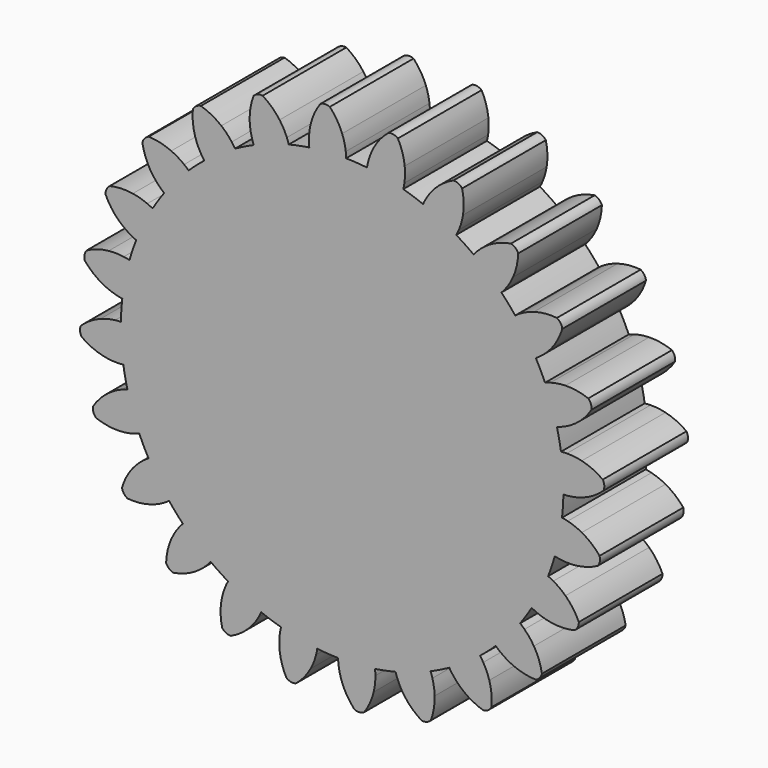
from build123d import *

# Parameters (mm, degrees)
F1_DEPTH = 25.4
F2_COUNT = 24


with BuildPart() as f1:
    # F0 (on Front) → F1 (new body)
    with BuildSketch(Plane.XZ):
        with BuildLine():
            ThreePointArc((-7.9757188017, 53.1256411782), (-35.0534039093, -40.7087793402), (53.721, 0))
            ThreePointArc((53.721, 0), (38.329016413, 37.6408334368), (0.9731977694, 53.7121841587))
            ThreePointArc((0.9731977694, 53.7121841587), (-3.5135215054, 53.6059792153), (-7.9757188017, 53.1256411782))
        make_face()
        with BuildLine():
            ThreePointArc((-7.9757188017, 53.1256411782), (-3.5135215054, 53.6059792153), (0.9731977694, 53.7121841587))
            ThreePointArc((0.9731977694, 53.7121841587), (0.9487260113, 54.422013975), (0.8762788669, 55.128560963))
            ThreePointArc((0.8762788669, 55.128560963), (0.5500181209, 56.9289320441), (0, 58.674))
            ThreePointArc((0, 58.674), (-1.2640596881, 61.196722678), (-2.9892332778, 63.4296025875))
            ThreePointArc((-2.9892332778, 63.4296025875), (-4.171199409, 63.6402049859), (-5.315564527, 63.2771267818))
            ThreePointArc((-5.315564527, 63.2771267818), (-6.7345297053, 60.8381691298), (-7.6584938023, 58.1720357962))
            ThreePointArc((-7.6584938023, 58.1720357962), (-7.9760293665, 56.3701053676), (-8.0645033248, 54.5425511378))
            ThreePointArc((-8.0645033248, 54.5425511378), (-8.0441077859, 53.8325925074), (-7.9757188017, 53.1256411782))
        make_face()
    extrude(amount=F1_DEPTH)

    # F2: F1 ×24 about axis
    f2_axis = Axis((0, 0, 0), (0, 1, 0))


with BuildPart() as f1_1:
    add(f1.part)
    for i in range(1, F2_COUNT):
        add(f1.part.rotate(f2_axis, i * 360 / F2_COUNT))


solid = f1_1.part
